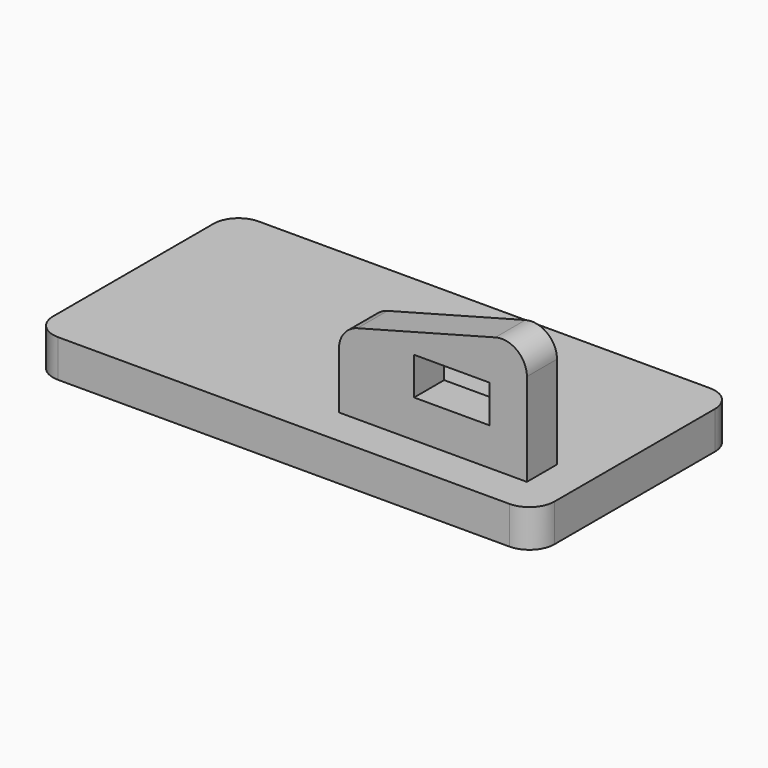
from build123d import *

# Parameters (mm, degrees)
F0_W     = 200
F0_H     = 100
F1_DEPTH = 15
F4_DEPTH = 15
F5_W     = 30
F5_H     = 15
F6_DEPTH = 15
F7_R     = 10


with BuildPart() as f1:
    # F0 (on Top) → F1 (new body)
    with BuildSketch(Plane.XY):
        Rectangle(F0_W, F0_H)
    extrude(amount=F1_DEPTH)

    # F3 (on offset) → F4 (join)
    with BuildSketch(Plane.XZ.offset(35)):
        Polygon((10, 15), (85, 15), (85, 65), (10, 45), align=None)
    extrude(amount=-F4_DEPTH)

    # F5 (on face) → F6 (cut, through all)
    with BuildSketch(Plane.XZ.offset(35)):
        with Locations((55, 37.5)):
            Rectangle(F5_W, F5_H)
    extrude(amount=-F6_DEPTH, mode=Mode.SUBTRACT)

    # F7
    f7_edges = [f1.edges().sort_by_distance(p)[0] for p in [
        (10, -27.5, 45),
        (85, -27.5, 65),
        (100, -50, 7.5),
        (-100, -50, 7.5),
        (-100, 50, 7.5),
        (100, 50, 7.5),
    ]]
    fillet(f7_edges, radius=F7_R)


solid = f1.part
